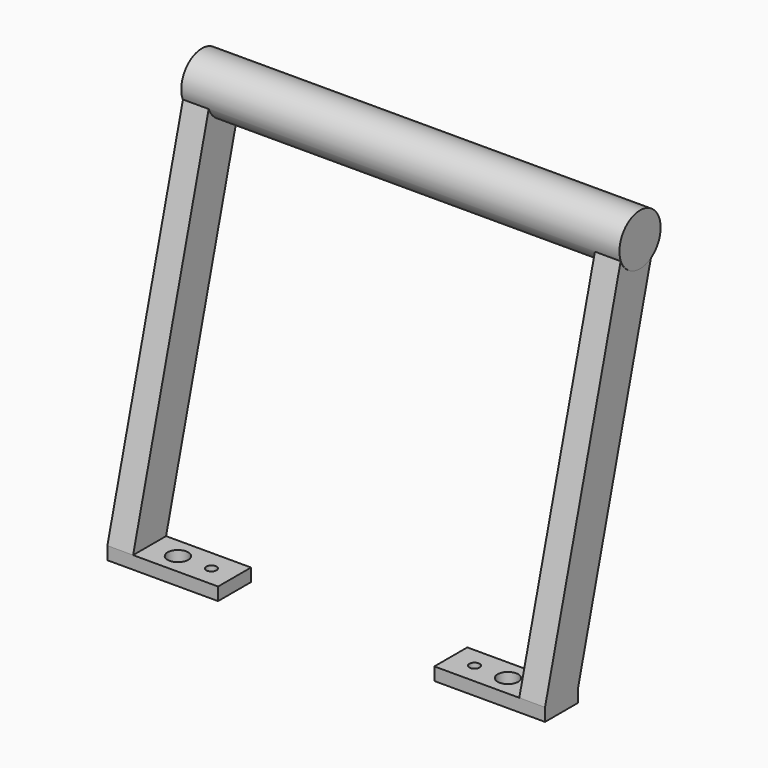
from build123d import *

# Parameters (mm, degrees)
CYLINDER127_R             = 10
CYLINDER127_DEPTH         = 170.2
EXTRUDE010_DEPTH          = 10
FILLET003_R               = 7.72
FILLET003_ROLL_ANGLE      = 90
FILLET003_PLACEMENT_ANGLE = 90
EXTRUDE009_DEPTH          = 10
FILLET002_R               = 7.72
FILLET002_ROLL_ANGLE      = 90
FILLET002_PLACEMENT_ANGLE = 90
CYLINDER237_R             = 2
CYLINDER237_DEPTH         = 42
CYLINDER033_R             = 4
CYLINDER033_DEPTH         = 32
BOX309_W                  = 43
BOX309_H                  = 16
BOX309_DEPTH              = 5
CYLINDER236_R             = 2
CYLINDER236_DEPTH         = 42
CYLINDER034_R             = 4
CYLINDER034_DEPTH         = 32
BOX310_W                  = 43
BOX310_H                  = 16
BOX310_DEPTH              = 5


with BuildPart() as cylinder127:
    # Cylinder127 → Cylinder127 (new body)
    with BuildSketch(Plane(origin=(-119.1, 28, 146.3), x_dir=(0, 0, -1), z_dir=(1, 0, 0))):
        Circle(CYLINDER127_R)
    extrude(amount=CYLINDER127_DEPTH)


with BuildPart() as fillet003:
    # Wire005 → Extrude010 (new body)
    with BuildSketch(Plane.XY):
        Polygon((0, 0), (16, 0), (56, 150), (40, 150), align=None)
    extrude(amount=EXTRUDE010_DEPTH)

    # Fillet003
    fillet003_edges = [fillet003.edges().sort_by_distance(p)[0] for p in [
        (56, 150, 5),
        (40, 150, 5),
    ]]
    fillet(fillet003_edges, radius=FILLET003_R)


with BuildPart() as fillet003_1:
    # Fillet003 roll: moved
    add(fillet003.part.rotate(Axis((0, 0, 0), (1, 0, 0)), FILLET003_ROLL_ANGLE))


with BuildPart() as fillet003_2:
    # Fillet003 placement: moved
    add(fillet003_1.part.moved(Location((-119, -18, 5))).rotate(Axis((-119, -18, 5), (0, 0, 1)), FILLET003_PLACEMENT_ANGLE))


with BuildPart() as fusion167:
    # Wire004 → Extrude009 (new body)
    with BuildSketch(Plane.XY):
        Polygon((0, 0), (16, 0), (56, 150), (40, 150), align=None)
    extrude(amount=EXTRUDE009_DEPTH)

    # Fillet002
    fillet002_edges = [fusion167.edges().sort_by_distance(p)[0] for p in [
        (56, 150, 5),
        (40, 150, 5),
    ]]
    fillet(fillet002_edges, radius=FILLET002_R)


with BuildPart() as fusion167_1:
    # Fillet002 roll: moved
    add(fusion167.part.rotate(Axis((0, 0, 0), (1, 0, 0)), FILLET002_ROLL_ANGLE))


with BuildPart() as fusion167_2:
    # Fillet002 placement: moved
    add(fusion167_1.part.moved(Location((41, -18, 5))).rotate(Axis((41, -18, 5), (0, 0, 1)), FILLET002_PLACEMENT_ANGLE))

    # Fusion167: union Cylinder127, Fillet003
    add(cylinder127.part)
    add(fillet003_2.part)


with BuildPart() as cylinder237:
    # Cylinder237 → Cylinder237 (new body)
    with BuildSketch(Plane(origin=(17.2, -10, -5), x_dir=(1, 0, 0), z_dir=(0, 0, 1))):
        Circle(CYLINDER237_R)
    extrude(amount=CYLINDER237_DEPTH)


with BuildPart() as cylinder033:
    # Cylinder033 → Cylinder033 (new body)
    with BuildSketch(Plane(origin=(30.2, -10, 0), x_dir=(1, 0, 0), z_dir=(0, 0, 1))):
        Circle(CYLINDER033_R)
    extrude(amount=CYLINDER033_DEPTH)


with BuildPart() as cut203:
    # Box309 → Box309 (new body)
    with BuildSketch(Plane(origin=(8, -18, 0), x_dir=(1, 0, 0), z_dir=(0, 0, 1))):
        with Locations((21.5, 8)):
            Rectangle(BOX309_W, BOX309_H)
    extrude(amount=BOX309_DEPTH)

    # Cut187: cut Cylinder033
    add(cylinder033.part, mode=Mode.SUBTRACT)

    # Cut203: cut Cylinder237
    add(cylinder237.part, mode=Mode.SUBTRACT)


with BuildPart() as cylinder236:
    # Cylinder236 → Cylinder236 (new body)
    with BuildSketch(Plane(origin=(-85, -10, -5), x_dir=(1, 0, 0), z_dir=(0, 0, 1))):
        Circle(CYLINDER236_R)
    extrude(amount=CYLINDER236_DEPTH)


with BuildPart() as cylinder034:
    # Cylinder034 → Cylinder034 (new body)
    with BuildSketch(Plane(origin=(-98, -10, 0), x_dir=(1, 0, 0), z_dir=(0, 0, 1))):
        Circle(CYLINDER034_R)
    extrude(amount=CYLINDER034_DEPTH)


with BuildPart() as handle:
    # Box310 → Box310 (new body)
    with BuildSketch(Plane(origin=(-119, -18, 0), x_dir=(1, 0, 0), z_dir=(0, 0, 1))):
        with Locations((21.5, 8)):
            Rectangle(BOX310_W, BOX310_H)
    extrude(amount=BOX310_DEPTH)

    # Cut183: cut Cylinder034
    add(cylinder034.part, mode=Mode.SUBTRACT)

    # Cut202: cut Cylinder236
    add(cylinder236.part, mode=Mode.SUBTRACT)

    # Fusion169: union Fusion167, Cut203
    add(fusion167_2.part)
    add(cut203.part)


with BuildPart() as handle_1:
    # Fusion169 placement: moved
    add(handle.part.moved(Location((0, 0, 20.1))))


solid = handle_1.part
